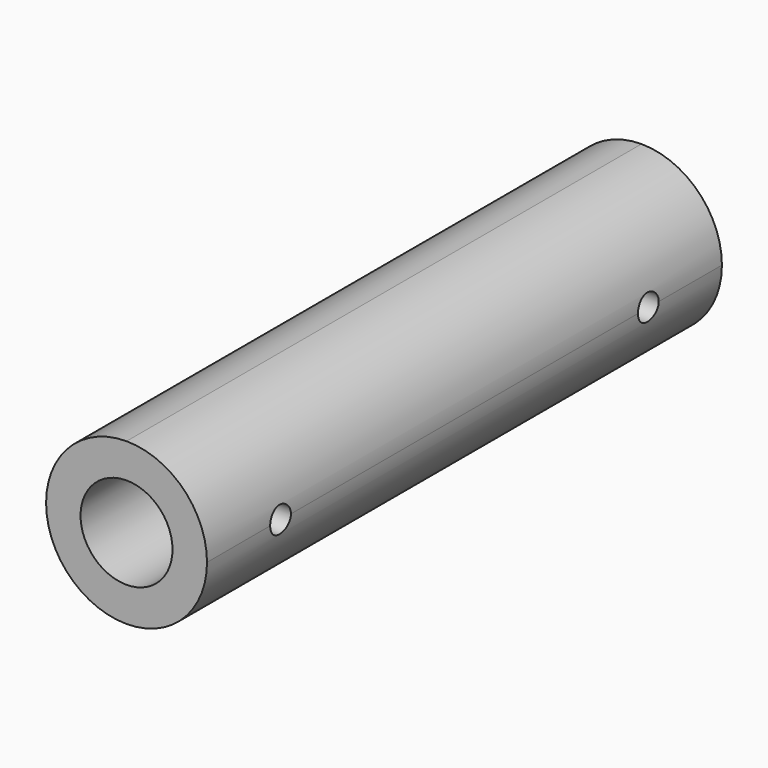
from build123d import *

# Parameters (mm, degrees)
F0_W     = 22.225
F0_H     = 22.225
F1_DEPTH = 44.45
F2_R     = 1.7907
F3_DEPTH = 10.16
F4_R     = 1.7907
F5_DEPTH = 10.16
F7_DEPTH = 88.9
F8_R     = 6.35
F9_DEPTH = 88.9


with BuildPart() as f1:
    # F0 (on Front) → F1 (new body, symmetric)
    with BuildSketch(Plane.XZ):
        Rectangle(F0_W, F0_H)
    extrude(amount=F1_DEPTH, both=True)

    # F2 (on face) → F3 (cut)
    with BuildSketch(Plane.YZ.offset(11.1125)):
        with Locations((31.75, 0)):
            Circle(F2_R)
    extrude(amount=-F3_DEPTH, mode=Mode.SUBTRACT)

    # F4 (on face) → F5 (cut)
    with BuildSketch(Plane.YZ.offset(11.1125)):
        with Locations((-31.75, 0)):
            Circle(F4_R)
    extrude(amount=-F5_DEPTH, mode=Mode.SUBTRACT)

    # F6 (on face) → F7 (cut)
    with BuildSketch(Plane.XZ.offset(44.45)):
        with BuildLine():
            ThreePointArc((-11.1125, -4.55e-08), (-7.857724122, 7.8577240898), (0, 11.1125))
            Line((0, 11.1125), (-9.5319095999, 11.1125))
            Line((-9.5319095999, 11.1125), (-11.1125, 11.1125))
            Line((-11.1125, 11.1125), (-11.1125, -4.55e-08))
        make_face()
        with BuildLine():
            ThreePointArc((0, 11.1125), (7.8577241059, 7.8577241059), (11.1125, 0))
            Line((11.1125, 0), (11.1125, 11.1125))
            Line((11.1125, 11.1125), (0, 11.1125))
        make_face()
        with BuildLine():
            Line((11.1125, -11.1125), (11.1125, 0))
            ThreePointArc((11.1125, 0), (7.8577241059, -7.8577241059), (0, -11.1125))
            Line((0, -11.1125), (11.1125, -11.1125))
        make_face()
        with BuildLine():
            Line((-11.1125, -11.1125), (0, -11.1125))
            ThreePointArc((0, -11.1125), (-7.8577240898, -7.857724122), (-11.1125, -4.55e-08))
            Line((-11.1125, -4.55e-08), (-11.1125, -11.1125))
        make_face()
    extrude(amount=-F7_DEPTH, mode=Mode.SUBTRACT)

    # F8 (on face) → F9 (cut)
    with BuildSketch(Plane.XZ.offset(44.45)):
        Circle(F8_R)
    extrude(amount=-F9_DEPTH, mode=Mode.SUBTRACT)


solid = f1.part
